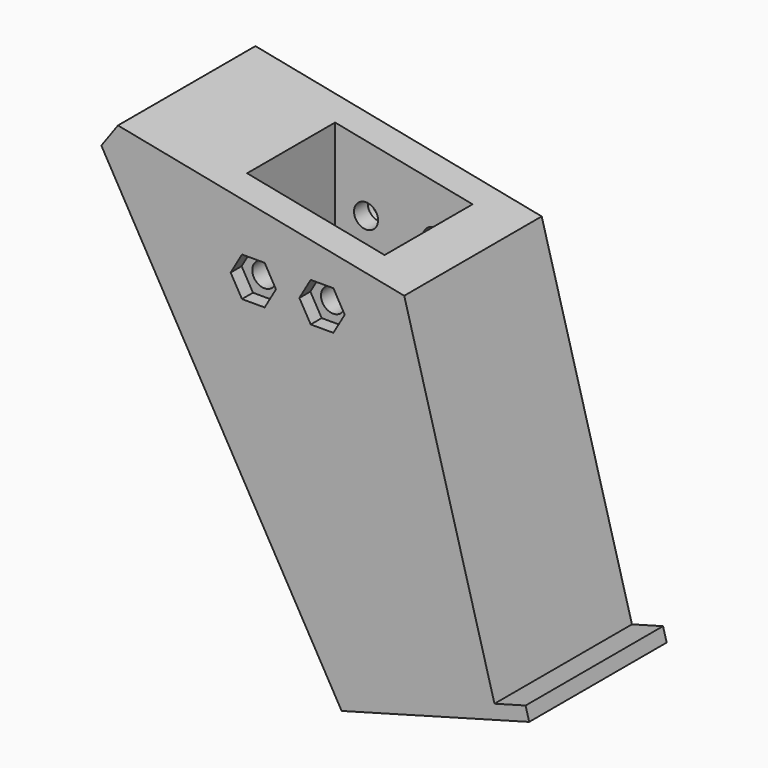
from build123d import *

# Parameters (mm, degrees)
CYLINDER077_R          = 3
CYLINDER077_DEPTH      = 32
CYLINDER077_ROLL_ANGLE = -90
CYLINDER076_R          = 3
CYLINDER076_DEPTH      = 32
CYLINDER076_ROLL_ANGLE = -90
PRISM002_DEPTH         = 10
PRISM002_ROLL_ANGLE    = -90
PRISM003_DEPTH         = 10
PRISM003_ROLL_ANGLE    = -90
CYLINDER071_R          = 1.75
CYLINDER071_DEPTH      = 32
CYLINDER071_ROLL_ANGLE = -90
CYLINDER072_R          = 1.75
CYLINDER072_DEPTH      = 32
CYLINDER072_ROLL_ANGLE = -90
BOX055_W               = 20
BOX055_H               = 16
BOX055_DEPTH           = 56
PAD009_DEPTH           = 25
CHAMFER109_SIZE        = 5


with BuildPart() as cilindro018:
    # Cylinder077 → Cylinder077 (new body)
    with BuildSketch(Plane.XY):
        Circle(CYLINDER077_R)
    extrude(amount=CYLINDER077_DEPTH)


with BuildPart() as cilindro018_1:
    # Cylinder077 roll: moved
    add(cilindro018.part.rotate(Axis((0, 0, 0), (1, 0, 0)), CYLINDER077_ROLL_ANGLE))


with BuildPart() as cilindro018_2:
    # Cylinder077 placement: moved
    add(cilindro018_1.part.moved(Location((8, 116, 84))))


with BuildPart() as fusion059:
    # Cylinder076 → Cylinder076 (new body)
    with BuildSketch(Plane.XY):
        Circle(CYLINDER076_R)
    extrude(amount=CYLINDER076_DEPTH)


with BuildPart() as fusion059_1:
    # Cylinder076 roll: moved
    add(fusion059.part.rotate(Axis((0, 0, 0), (1, 0, 0)), CYLINDER076_ROLL_ANGLE))


with BuildPart() as fusion059_2:
    # Cylinder076 placement: moved
    add(fusion059_1.part.moved(Location((18, 116, 84))))

    # Fusion059: union Cilindro018
    add(cilindro018_2.part)


with BuildPart() as prisma001:
    # Prism002 → Prism002 (new body)
    with BuildSketch(Plane.XY):
        Polygon((3.3, 0), (1.65, 2.857884), (-1.65, 2.857884), (-3.3, 0), (-1.65, -2.857884), (1.65, -2.857884), align=None)
    extrude(amount=PRISM002_DEPTH)


with BuildPart() as prisma001_1:
    # Prism002 roll: moved
    add(prisma001.part.rotate(Axis((0, 0, 0), (1, 0, 0)), PRISM002_ROLL_ANGLE))


with BuildPart() as prisma001_2:
    # Prism002 placement: moved
    add(prisma001_1.part.moved(Location((18, 85, 84))))


with BuildPart() as fusion058:
    # Prism003 → Prism003 (new body)
    with BuildSketch(Plane.XY):
        Polygon((3.3, 0), (1.65, 2.857884), (-1.65, 2.857884), (-3.3, 0), (-1.65, -2.857884), (1.65, -2.857884), align=None)
    extrude(amount=PRISM003_DEPTH)


with BuildPart() as fusion058_1:
    # Prism003 roll: moved
    add(fusion058.part.rotate(Axis((0, 0, 0), (1, 0, 0)), PRISM003_ROLL_ANGLE))


with BuildPart() as fusion058_2:
    # Prism003 placement: moved
    add(fusion058_1.part.moved(Location((8, 85, 84))))

    # Fusion058: union Prisma001
    add(prisma001_2.part)


with BuildPart() as cilindro012:
    # Cylinder071 → Cylinder071 (new body)
    with BuildSketch(Plane.XY):
        Circle(CYLINDER071_R)
    extrude(amount=CYLINDER071_DEPTH)


with BuildPart() as cilindro012_1:
    # Cylinder071 roll: moved
    add(cilindro012.part.rotate(Axis((0, 0, 0), (1, 0, 0)), CYLINDER071_ROLL_ANGLE))


with BuildPart() as cilindro012_2:
    # Cylinder071 placement: moved
    add(cilindro012_1.part.moved(Location((8, 90, 84))))


with BuildPart() as fusion055:
    # Cylinder072 → Cylinder072 (new body)
    with BuildSketch(Plane.XY):
        Circle(CYLINDER072_R)
    extrude(amount=CYLINDER072_DEPTH)


with BuildPart() as fusion055_1:
    # Cylinder072 roll: moved
    add(fusion055.part.rotate(Axis((0, 0, 0), (1, 0, 0)), CYLINDER072_ROLL_ANGLE))


with BuildPart() as fusion055_2:
    # Cylinder072 placement: moved
    add(fusion055_1.part.moved(Location((18, 90, 84))))

    # Fusion055: union Cilindro012
    add(cilindro012_2.part)


with BuildPart() as cubo005:
    # Box055 → Box055 (new body)
    with BuildSketch(Plane(origin=(3.5, 97.5, 79.5), x_dir=(1, 0, 0), z_dir=(0, 0, 1))):
        with Locations((10, 8)):
            Rectangle(BOX055_W, BOX055_H)
    extrude(amount=BOX055_DEPTH)


with BuildPart() as obj1:
    # Sketch014 → Pad009 (new body)
    with BuildSketch(Plane(origin=(0, 93, 0), x_dir=(-1, 0, 0), z_dir=(0, 1, 0))):
        Polygon((-43.087208, 41.265208), (-29.956285, 89.24578), (16.5937, 98.48838), (-20.850395, 33.106079), (-48.138032, 40.573932), (-47.610101, 42.502996), align=None)
    extrude(amount=PAD009_DEPTH)

    # Cut096: cut Cubo005
    add(cubo005.part, mode=Mode.SUBTRACT)

    # Cut097: cut Fusion055
    add(fusion055_2.part, mode=Mode.SUBTRACT)

    # Cut101: cut Fusion058
    add(fusion058_2.part, mode=Mode.SUBTRACT)

    # Cut102: cut Fusion059
    add(fusion059_2.part, mode=Mode.SUBTRACT)

    # Chamfer109
    chamfer109_edges = [obj1.edges().sort_by_distance(p)[0] for p in [
        (-16.5937, 105.5, 98.48838),
    ]]
    chamfer(chamfer109_edges, length=CHAMFER109_SIZE)


solid = obj1.part
